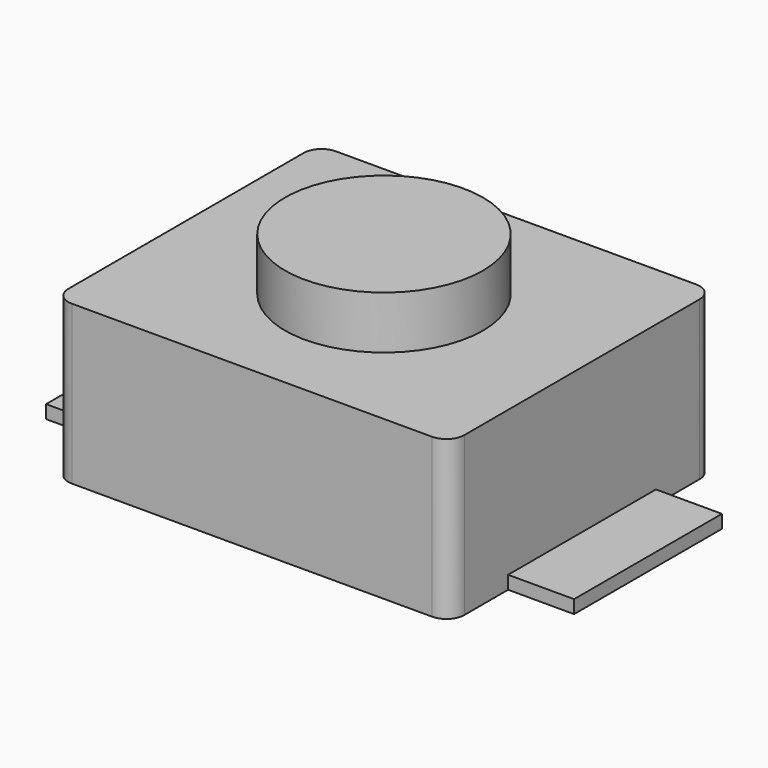
from build123d import *

# Parameters (mm, degrees)
F1_DEPTH = 1.2
F2_R     = 0.75
F3_DEPTH = 0.4
F4_W     = 4
F4_H     = 1.4
F5_DEPTH = 0.1


with BuildPart() as f1:
    # F0 (on Top) → F1 (new body)
    with BuildSketch(Plane.XY):
        with BuildLine():
            Line((-1.364697, -1.25), (1.364697, -1.25))
            ThreePointArc((1.364697, -1.25), (1.460371, -1.210371), (1.5, -1.114697))
            Line((1.5, -1.114697), (1.5, 1.114697))
            ThreePointArc((1.5, 1.114697), (1.460371, 1.210371), (1.364697, 1.25))
            Line((1.364697, 1.25), (-1.364697, 1.25))
            ThreePointArc((-1.364697, 1.25), (-1.460371, 1.210371), (-1.5, 1.114697))
            Line((-1.5, 1.114697), (-1.5, -1.114697))
            ThreePointArc((-1.5, -1.114697), (-1.460371, -1.210371), (-1.364697, -1.25))
        make_face()
    extrude(amount=F1_DEPTH)

    # F4 (on face) → F5 (join)
    with BuildSketch(Plane(origin=(0, 0, 0), x_dir=(1, 0, 0), z_dir=(0, 0, -1))):
        Rectangle(F4_W, F4_H)
    extrude(amount=-F5_DEPTH)


with BuildPart() as f3:
    # F2 (on face) → F3 (new body)
    with BuildSketch(Plane.XY.offset(1.2)):
        Circle(F2_R)
    extrude(amount=F3_DEPTH)


solid = Compound([f1.part, f3.part])
